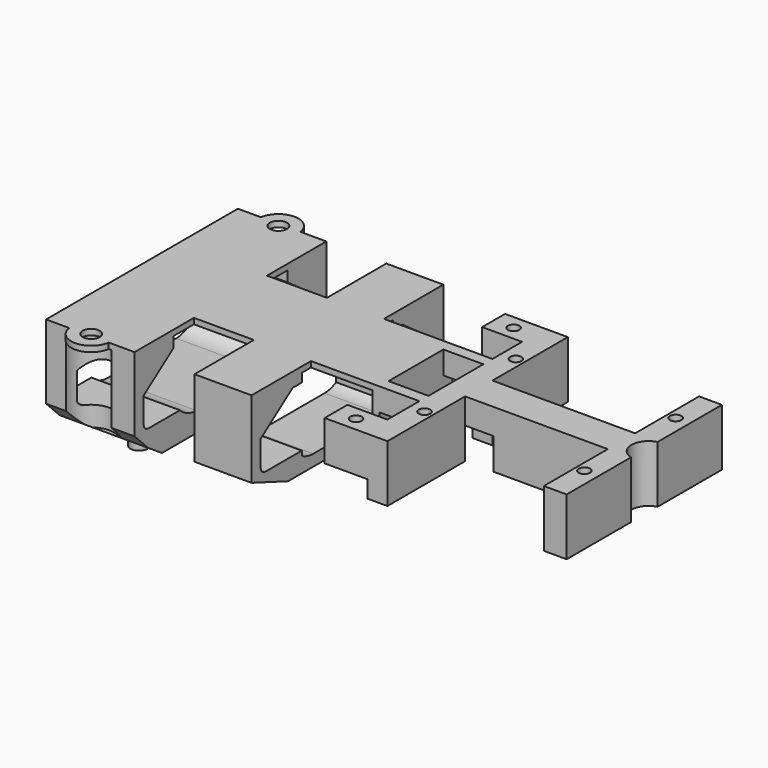
from build123d import *

# Parameters (mm, degrees)
BOX175_W           = 12.5
BOX175_H           = 42
BOX175_DEPTH       = 4
CYLINDER255_R      = 4
CYLINDER255_DEPTH  = 15.5
CYLINDER254_R      = 4
CYLINDER254_DEPTH  = 15.5
BOX179_W           = 60
BOX179_H           = 38
BOX179_DEPTH       = 6
FILLET109_R        = 1
BOX177_W           = 49
BOX177_H           = 10
BOX177_DEPTH       = 9
CHAMFER030_SIZE2   = 7
CHAMFER030_SIZE    = 5
BOX178_W           = 49
BOX178_H           = 10
BOX178_DEPTH       = 9
CHAMFER029_SIZE2   = 7
CHAMFER029_SIZE    = 5
BOX176_W           = 10
BOX176_H           = 6
BOX176_DEPTH       = 10
BOX173_W           = 10
BOX173_H           = 11
BOX173_DEPTH       = 16.5
CHAMFER028_SIZE2   = 8
CHAMFER028_SIZE    = 3
BOX174_W           = 10
BOX174_H           = 11
BOX174_DEPTH       = 16.5
CHAMFER031_SIZE2   = 8
CHAMFER031_SIZE    = 3
CYLINDER231_R      = 1
CYLINDER231_DEPTH  = 15
BOX146_W           = 11
BOX146_H           = 5
BOX146_DEPTH       = 10
CYLINDER230_R      = 1
CYLINDER230_DEPTH  = 15
BOX145_W           = 11
BOX145_H           = 5
BOX145_DEPTH       = 10
CYLINDER198_R      = 1.5
CYLINDER198_DEPTH  = 2.5
CYLINDER199_R      = 2.5
CYLINDER199_DEPTH  = 2.5
CYLINDER200_R      = 2.5
CYLINDER200_DEPTH  = 2.5
CYLINDER197_R      = 1.5
CYLINDER197_DEPTH  = 2.5
BOX090_W           = 50
BOX090_H           = 25
BOX090_DEPTH       = 13.5
FILLET081_R        = 5
CYLINDER158_R      = 3
CYLINDER158_DEPTH  = 20
CYLINDER159_R      = 1
CYLINDER159_DEPTH  = 15
CYLINDER162_R      = 1
CYLINDER162_DEPTH  = 15
CYLINDER161_R      = 1
CYLINDER161_DEPTH  = 15
CYLINDER160_R      = 1
CYLINDER160_DEPTH  = 15
PAD015_DEPTH       = 10
BOX093_W           = 9
BOX093_H           = 2
BOX093_DEPTH       = 4
BOX094_W           = 9
BOX094_H           = 2
BOX094_DEPTH       = 4
BOX089_W           = 32.5
BOX089_H           = 16
BOX089_DEPTH       = 10
CYLINDER064_R      = 1.5
CYLINDER064_DEPTH  = 10
CYLINDER066_R      = 1.5
CYLINDER066_DEPTH  = 10
BOX030_W           = 17.5
BOX030_H           = 3.5
BOX030_DEPTH       = 18
BOX028_W           = 17.5
BOX028_H           = 3.5
BOX028_DEPTH       = 18
BOX036_W           = 15.5
BOX036_H           = 42
BOX036_DEPTH       = 18
CYLINDER068_R      = 3.5
CYLINDER068_DEPTH  = 1
CYLINDER060_R      = 1.4
CYLINDER060_DEPTH  = 2.5
CYLINDER059_R      = 1.4
CYLINDER059_DEPTH  = 2.5
CYLINDER072_R      = 3.5
CYLINDER072_DEPTH  = 1
CHAMFER018_1_SIZE2 = 2
CHAMFER018_1_SIZE  = 3
CHAMFER018_2_SIZE2 = 3
CHAMFER018_2_SIZE  = 2
BOX092_W           = 2
BOX092_H           = 2
BOX092_DEPTH       = 10
BOX091_W           = 2
BOX091_H           = 2
BOX091_DEPTH       = 10
CYLINDER157_R      = 2
CYLINDER157_DEPTH  = 41
BOX109_W           = 10
BOX109_H           = 28
BOX109_DEPTH       = 16.5
CHAMFER020_SIZE    = 4
BOX172_W           = 15.5
BOX172_H           = 4
BOX172_DEPTH       = 15
CHAMFER027_SIZE    = 3
BOX171_W           = 15.5
BOX171_H           = 4
BOX171_DEPTH       = 15
CHAMFER026_SIZE    = 3


with BuildPart() as obj1:
    # Box175 → Box175 (new body)
    with BuildSketch(Plane(origin=(-17, -21, -20), x_dir=(1, 0, 0), z_dir=(0, 0, 1))):
        with Locations((6.25, 21)):
            Rectangle(BOX175_W, BOX175_H)
    extrude(amount=BOX175_DEPTH)


with BuildPart() as zylinder257:
    # Cylinder255 → Cylinder255 (new body)
    with BuildSketch(Plane(origin=(-52.5, -20.5, -25.5), x_dir=(1, 0, 0), z_dir=(0, 0, 1))):
        Circle(CYLINDER255_R)
    extrude(amount=CYLINDER255_DEPTH)


with BuildPart() as fusion168:
    # Cylinder254 → Cylinder254 (new body)
    with BuildSketch(Plane(origin=(-52.5, 20.5, -25.5), x_dir=(1, 0, 0), z_dir=(0, 0, 1))):
        Circle(CYLINDER254_R)
    extrude(amount=CYLINDER254_DEPTH)

    # Fusion168: union Zylinder257
    add(zylinder257.part)


with BuildPart() as fillet109:
    # Box179 → Box179 (new body)
    with BuildSketch(Plane(origin=(-65.5, -19, -18), x_dir=(1, 0, 0), z_dir=(0, 0, 1))):
        with Locations((30, 19)):
            Rectangle(BOX179_W, BOX179_H)
    extrude(amount=BOX179_DEPTH)

    # Fillet109
    fillet109_edges = [fillet109.edges().sort_by_distance(p)[0] for p in [
        (-35.5, -19, -18),
        (-35.5, -19, -12),
        (-35.5, 19, -18),
        (-35.5, 19, -12),
    ]]
    fillet(fillet109_edges, radius=FILLET109_R)


with BuildPart() as fillet109_1:
    # Fillet109 placement: moved
    add(fillet109.part.moved(Location((0, 0, -4))))


with BuildPart() as chamfer030:
    # Box177 → Box177 (new body)
    with BuildSketch(Plane(origin=(-69.5, -19, -20.5), x_dir=(1, 0, 0), z_dir=(0, 0, 1))):
        with Locations((24.5, 5)):
            Rectangle(BOX177_W, BOX177_H)
    extrude(amount=BOX177_DEPTH)

    # Chamfer030
    chamfer030_edges = [chamfer030.edges().sort_by_distance(p)[0] for p in [
        (-45, -19, -11.5),
    ]]
    chamfer030_side = chamfer030.faces().sort_by_distance((-45, -19, -16))[0]
    chamfer(chamfer030_edges, length=CHAMFER030_SIZE, length2=CHAMFER030_SIZE2, reference=chamfer030_side)


with BuildPart() as chamfer029:
    # Box178 → Box178 (new body)
    with BuildSketch(Plane(origin=(-69.5, 9, -20.5), x_dir=(1, 0, 0), z_dir=(0, 0, 1))):
        with Locations((24.5, 5)):
            Rectangle(BOX178_W, BOX178_H)
    extrude(amount=BOX178_DEPTH)

    # Chamfer029
    chamfer029_edges = [chamfer029.edges().sort_by_distance(p)[0] for p in [
        (-45, 19, -11.5),
    ]]
    chamfer029_side = chamfer029.faces().sort_by_distance((-45, 19, -16))[0]
    chamfer(chamfer029_edges, length=CHAMFER029_SIZE, length2=CHAMFER029_SIZE2, reference=chamfer029_side)


with BuildPart() as fusion174:
    # Box176 → Box176 (new body)
    with BuildSketch(Plane(origin=(-6, -3, -23.5), x_dir=(1, 0, 0), z_dir=(0, 0, 1))):
        with Locations((5, 3)):
            Rectangle(BOX176_W, BOX176_H)
    extrude(amount=BOX176_DEPTH)

    # Fusion174: union obj1, Fusion168, Fillet109, Chamfer030, Chamfer029
    add(obj1.part)
    add(fusion168.part)
    add(fillet109_1.part)
    add(chamfer030.part)
    add(chamfer029.part)


with BuildPart() as chamfer028:
    # Box173 → Box173 (new body)
    with BuildSketch(Plane(origin=(-34, 10, -25.5), x_dir=(1, 0, 0), z_dir=(0, 0, 1))):
        with Locations((5, 5.5)):
            Rectangle(BOX173_W, BOX173_H)
    extrude(amount=BOX173_DEPTH)

    # Chamfer028
    chamfer028_edges = [chamfer028.edges().sort_by_distance(p)[0] for p in [
        (-29, 21, -25.5),
    ]]
    chamfer028_side = chamfer028.faces().sort_by_distance((-29, 21, -17.25))[0]
    chamfer(chamfer028_edges, length=CHAMFER028_SIZE, length2=CHAMFER028_SIZE2, reference=chamfer028_side)


with BuildPart() as chamfer031:
    # Box174 → Box174 (new body)
    with BuildSketch(Plane(origin=(-34, -21, -25.5), x_dir=(1, 0, 0), z_dir=(0, 0, 1))):
        with Locations((5, 5.5)):
            Rectangle(BOX174_W, BOX174_H)
    extrude(amount=BOX174_DEPTH)

    # Chamfer031
    chamfer031_edges = [chamfer031.edges().sort_by_distance(p)[0] for p in [
        (-29, -21, -25.5),
    ]]
    chamfer031_side = chamfer031.faces().sort_by_distance((-29, -21, -17.25))[0]
    chamfer(chamfer031_edges, length=CHAMFER031_SIZE, length2=CHAMFER031_SIZE2, reference=chamfer031_side)


with BuildPart() as zylinder231:
    # Cylinder231 → Cylinder231 (new body)
    with BuildSketch(Plane(origin=(-8.5, 16, -20), x_dir=(1, 0, 0), z_dir=(0, 0, 1))):
        Circle(CYLINDER231_R)
    extrude(amount=CYLINDER231_DEPTH)


with BuildPart() as cut103:
    # Box146 → Box146 (new body)
    with BuildSketch(Plane(origin=(-12, 13.5, -19), x_dir=(1, 0, 0), z_dir=(0, 0, 1))):
        with Locations((5.5, 2.5)):
            Rectangle(BOX146_W, BOX146_H)
    extrude(amount=BOX146_DEPTH)

    # Cut103: cut Zylinder231
    add(zylinder231.part, mode=Mode.SUBTRACT)


with BuildPart() as cut103_1:
    # Cut103 placement: moved
    add(cut103.part.moved(Location((0, -33.5, 0))))


with BuildPart() as zylinder230:
    # Cylinder230 → Cylinder230 (new body)
    with BuildSketch(Plane(origin=(-8.5, 17, -20), x_dir=(1, 0, 0), z_dir=(0, 0, 1))):
        Circle(CYLINDER230_R)
    extrude(amount=CYLINDER230_DEPTH)


with BuildPart() as cut102:
    # Box145 → Box145 (new body)
    with BuildSketch(Plane(origin=(-12, 14.5, -19), x_dir=(1, 0, 0), z_dir=(0, 0, 1))):
        with Locations((5.5, 2.5)):
            Rectangle(BOX145_W, BOX145_H)
    extrude(amount=BOX145_DEPTH)

    # Cut102: cut Zylinder230
    add(zylinder230.part, mode=Mode.SUBTRACT)


with BuildPart() as zylinder198:
    # Cylinder198 → Cylinder198 (new body)
    with BuildSketch(Plane(origin=(-52.5, -10, -30.5), x_dir=(1, 0, 0), z_dir=(0, 0, 1))):
        Circle(CYLINDER198_R)
    extrude(amount=CYLINDER198_DEPTH)


with BuildPart() as zylinder199:
    # Cylinder199 → Cylinder199 (new body)
    with BuildSketch(Plane(origin=(-52.5, 10, -28.5), x_dir=(1, 0, 0), z_dir=(0, 0, 1))):
        Circle(CYLINDER199_R)
    extrude(amount=CYLINDER199_DEPTH)


with BuildPart() as zylinder200:
    # Cylinder200 → Cylinder200 (new body)
    with BuildSketch(Plane(origin=(-52.5, -10, -28.5), x_dir=(1, 0, 0), z_dir=(0, 0, 1))):
        Circle(CYLINDER200_R)
    extrude(amount=CYLINDER200_DEPTH)


with BuildPart() as fusion130:
    # Cylinder197 → Cylinder197 (new body)
    with BuildSketch(Plane(origin=(-52.5, 10, -30.5), x_dir=(1, 0, 0), z_dir=(0, 0, 1))):
        Circle(CYLINDER197_R)
    extrude(amount=CYLINDER197_DEPTH)

    # Fusion130: union Zylinder198, Zylinder199, Zylinder200
    add(zylinder198.part)
    add(zylinder199.part)
    add(zylinder200.part)


with BuildPart() as fillet081:
    # Box090 → Box090 (new body)
    with BuildSketch(Plane(origin=(-63.25, -12, -22), x_dir=(1, 0, 0), z_dir=(0, 0, 1))):
        with Locations((25, 12.5)):
            Rectangle(BOX090_W, BOX090_H)
    extrude(amount=BOX090_DEPTH)

    # Fillet081
    fillet081_edges = [fillet081.edges().sort_by_distance(p)[0] for p in [
        (-38.25, -12, -22),
        (-38.25, 13, -22),
    ]]
    fillet(fillet081_edges, radius=FILLET081_R)


with BuildPart() as fillet081_1:
    # Fillet081 placement: moved
    add(fillet081.part.moved(Location((0, -0.5, -1.5))))


with BuildPart() as zylinder158:
    # Cylinder158 → Cylinder158 (new body)
    with BuildSketch(Plane(origin=(28.75, 0, -21), x_dir=(1, 0, 0), z_dir=(0, 0, 1))):
        Circle(CYLINDER158_R)
    extrude(amount=CYLINDER158_DEPTH)


with BuildPart() as zylinder159:
    # Cylinder159 → Cylinder159 (new body)
    with BuildSketch(Plane(origin=(25.5, -10, -20), x_dir=(1, 0, 0), z_dir=(0, 0, 1))):
        Circle(CYLINDER159_R)
    extrude(amount=CYLINDER159_DEPTH)


with BuildPart() as zylinder162:
    # Cylinder162 → Cylinder162 (new body)
    with BuildSketch(Plane(origin=(25.5, 10, -20), x_dir=(1, 0, 0), z_dir=(0, 0, 1))):
        Circle(CYLINDER162_R)
    extrude(amount=CYLINDER162_DEPTH)


with BuildPart() as zylinder161:
    # Cylinder161 → Cylinder161 (new body)
    with BuildSketch(Plane(origin=(-2.5, -10, -20), x_dir=(1, 0, 0), z_dir=(0, 0, 1))):
        Circle(CYLINDER161_R)
    extrude(amount=CYLINDER161_DEPTH)


with BuildPart() as fusion104:
    # Cylinder160 → Cylinder160 (new body)
    with BuildSketch(Plane(origin=(-2.5, 10, -20), x_dir=(1, 0, 0), z_dir=(0, 0, 1))):
        Circle(CYLINDER160_R)
    extrude(amount=CYLINDER160_DEPTH)

    # Fusion104: union Zylinder159, Zylinder162, Zylinder161
    add(zylinder159.part)
    add(zylinder162.part)
    add(zylinder161.part)


with BuildPart() as fusion104_1:
    # Fusion104 placement: moved
    add(fusion104.part.moved(Location((0, 0, 17))))


with BuildPart() as cut080:
    # Sketch015 → Pad015 (new body)
    with BuildSketch(Plane.XY):
        Polygon((-5, 17), (-1, 17), (-1, 3), (24, 3), (24, 17), (28, 17), (28, -17), (24, -17), (24, -3), (-1, -3), (-1, -17), (-5, -17), align=None)
    extrude(amount=PAD015_DEPTH)

    # Cut081: cut Fusion104
    add(fusion104_1.part, mode=Mode.SUBTRACT)


with BuildPart() as cut080_1:
    # Cut081 placement: moved
    add(cut080.part.moved(Location((0, 0, -19))))

    # Cut080: cut Zylinder158
    add(zylinder158.part, mode=Mode.SUBTRACT)


with BuildPart() as obj2:
    # Box093 → Box093 (new body)
    with BuildSketch(Plane(origin=(-13, -8, -13), x_dir=(1, 0, 0), z_dir=(0, 0, 1))):
        with Locations((4.5, 1)):
            Rectangle(BOX093_W, BOX093_H)
    extrude(amount=BOX093_DEPTH)


with BuildPart() as obj3:
    # Box094 → Box094 (new body)
    with BuildSketch(Plane(origin=(-13, 6, -13), x_dir=(1, 0, 0), z_dir=(0, 0, 1))):
        with Locations((4.5, 1)):
            Rectangle(BOX094_W, BOX094_H)
    extrude(amount=BOX094_DEPTH)


with BuildPart() as obj4:
    # Box089 → Box089 (new body)
    with BuildSketch(Plane(origin=(-44.5, -8, -19), x_dir=(1, 0, 0), z_dir=(0, 0, 1))):
        with Locations((16.25, 8)):
            Rectangle(BOX089_W, BOX089_H)
    extrude(amount=BOX089_DEPTH)


with BuildPart() as zylinder064:
    # Cylinder064 → Cylinder064 (new body)
    with BuildSketch(Plane(origin=(16.5, -20.5, -14), x_dir=(1, 0, 0), z_dir=(0, 0, 1))):
        Circle(CYLINDER064_R)
    extrude(amount=CYLINDER064_DEPTH)


with BuildPart() as fusion097:
    # Cylinder066 → Cylinder066 (new body)
    with BuildSketch(Plane(origin=(16.5, 20.5, -14), x_dir=(1, 0, 0), z_dir=(0, 0, 1))):
        Circle(CYLINDER066_R)
    extrude(amount=CYLINDER066_DEPTH)

    # Fusion097: union Zylinder064
    add(zylinder064.part)


with BuildPart() as fusion097_1:
    # Fusion097 placement: moved
    add(fusion097.part.moved(Location((-69, 0, 0))))


with BuildPart() as obj5:
    # Box030 → Box030 (new body)
    with BuildSketch(Plane(origin=(7.5, 18, -28), x_dir=(1, 0, 0), z_dir=(0, 0, 1))):
        with Locations((8.75, 1.75)):
            Rectangle(BOX030_W, BOX030_H)
    extrude(amount=BOX030_DEPTH)


with BuildPart() as fusion099:
    # Box028 → Box028 (new body)
    with BuildSketch(Plane(origin=(7.5, -21.5, -28), x_dir=(1, 0, 0), z_dir=(0, 0, 1))):
        with Locations((8.75, 1.75)):
            Rectangle(BOX028_W, BOX028_H)
    extrude(amount=BOX028_DEPTH)

    # Fusion037: union obj5
    add(obj5.part)


with BuildPart() as fusion099_1:
    # Fusion037 placement: moved
    add(fusion099.part.moved(Location((-68.5, 0, 0))))

    # Fusion099: union Fusion097
    add(fusion097_1.part)


with BuildPart() as obj6:
    # Box036 → Box036 (new body)
    with BuildSketch(Plane(origin=(-60, -21, -27), x_dir=(1, 0, 0), z_dir=(0, 0, 1))):
        with Locations((7.75, 21)):
            Rectangle(BOX036_W, BOX036_H)
    extrude(amount=BOX036_DEPTH)


with BuildPart() as zylinder068:
    # Cylinder068 → Cylinder068 (new body)
    with BuildSketch(Plane(origin=(16.5, 20.5, -10), x_dir=(1, 0, 0), z_dir=(0, 0, 1))):
        Circle(CYLINDER068_R)
    extrude(amount=CYLINDER068_DEPTH)


with BuildPart() as zylinder060:
    # Cylinder060 → Cylinder060 (new body)
    with BuildSketch(Plane(origin=(16.5, -10, -29.5), x_dir=(1, 0, 0), z_dir=(0, 0, 1))):
        Circle(CYLINDER060_R)
    extrude(amount=CYLINDER060_DEPTH)


with BuildPart() as zylinder059:
    # Cylinder059 → Cylinder059 (new body)
    with BuildSketch(Plane(origin=(16.5, 10, -29.5), x_dir=(1, 0, 0), z_dir=(0, 0, 1))):
        Circle(CYLINDER059_R)
    extrude(amount=CYLINDER059_DEPTH)


with BuildPart() as fusion101:
    # Cylinder072 → Cylinder072 (new body)
    with BuildSketch(Plane(origin=(16.5, -20.5, -10), x_dir=(1, 0, 0), z_dir=(0, 0, 1))):
        Circle(CYLINDER072_R)
    extrude(amount=CYLINDER072_DEPTH)

    # Fusion030: union Zylinder068, Zylinder060, Zylinder059
    add(zylinder068.part)
    add(zylinder060.part)
    add(zylinder059.part)


with BuildPart() as fusion101_1:
    # Fusion030 placement: moved
    add(fusion101.part.moved(Location((-69, 0, 0))))

    # Fusion098: union obj6
    add(obj6.part)

    # Cut077: cut Fusion099
    add(fusion099_1.part, mode=Mode.SUBTRACT)

    # Chamfer018 1
    chamfer018_1_edges = [fusion101_1.edges().sort_by_distance(p)[0] for p in [
        (-52.25, -18, -27),
    ]]
    chamfer018_1_side = fusion101_1.faces().sort_by_distance((-52.244358, 0, -27))[0]
    chamfer(chamfer018_1_edges, length=CHAMFER018_1_SIZE, length2=CHAMFER018_1_SIZE2, reference=chamfer018_1_side)

    # Chamfer018 2
    chamfer018_2_edges = [fusion101_1.edges().sort_by_distance(p)[0] for p in [
        (-52.25, 18, -27),
    ]]
    chamfer018_2_side = fusion101_1.faces().sort_by_distance((-52.25, 18, -18.5))[0]
    chamfer(chamfer018_2_edges, length=CHAMFER018_2_SIZE, length2=CHAMFER018_2_SIZE2, reference=chamfer018_2_side)

    # Fusion101: union obj4
    add(obj4.part)


with BuildPart() as obj7:
    # Box092 → Box092 (new body)
    with BuildSketch(Plane(origin=(-57.5, -19.5, -21), x_dir=(1, 0, 0), z_dir=(0, 0, 1))):
        with Locations((1, 1)):
            Rectangle(BOX092_W, BOX092_H)
    extrude(amount=BOX092_DEPTH)


with BuildPart() as fusion102:
    # Box091 → Box091 (new body)
    with BuildSketch(Plane(origin=(-57.5, 17.5, -21), x_dir=(1, 0, 0), z_dir=(0, 0, 1))):
        with Locations((1, 1)):
            Rectangle(BOX091_W, BOX091_H)
    extrude(amount=BOX091_DEPTH)

    # Fusion102: union obj7
    add(obj7.part)


with BuildPart() as fusion103:
    # Cylinder157 → Cylinder157 (new body)
    with BuildSketch(Plane(origin=(-58, -20.5, -16.5), x_dir=(1, 0, 0), z_dir=(0, 1, 0))):
        Circle(CYLINDER157_R)
    extrude(amount=CYLINDER157_DEPTH)

    # Cut078: cut Fusion102
    add(fusion102.part, mode=Mode.SUBTRACT)

    # Fusion103: union Fusion101
    add(fusion101_1.part)


with BuildPart() as fusion147:
    # Box109 → Box109 (new body)
    with BuildSketch(Plane(origin=(-34, -14, -25.5), x_dir=(1, 0, 0), z_dir=(0, 0, 1))):
        with Locations((5, 14)):
            Rectangle(BOX109_W, BOX109_H)
    extrude(amount=BOX109_DEPTH)

    # Chamfer020
    chamfer020_edges = [fusion147.edges().sort_by_distance(p)[0] for p in [
        (-29, -14, -25.5),
        (-29, 14, -25.5),
    ]]
    chamfer(chamfer020_edges, length=CHAMFER020_SIZE)

    # Fusion125: union Cut080, obj2, obj3, Fusion103
    add(cut080_1.part)
    add(obj2.part)
    add(obj3.part)
    add(fusion103.part)

    # Cut083: cut Fillet081
    add(fillet081_1.part, mode=Mode.SUBTRACT)

    # Fusion131: union Fusion130
    add(fusion130.part)

    # Fusion147: union Cut103, Cut102
    add(cut103_1.part)
    add(cut102.part)


with BuildPart() as chamfer027:
    # Box172 → Box172 (new body)
    with BuildSketch(Plane(origin=(-60, -21, -25), x_dir=(1, 0, 0), z_dir=(0, 0, 1))):
        with Locations((7.75, 2)):
            Rectangle(BOX172_W, BOX172_H)
    extrude(amount=BOX172_DEPTH)

    # Chamfer027
    chamfer027_edges = [chamfer027.edges().sort_by_distance(p)[0] for p in [
        (-52.25, -21, -25),
    ]]
    chamfer(chamfer027_edges, length=CHAMFER027_SIZE)


with BuildPart() as cut118:
    # Box171 → Box171 (new body)
    with BuildSketch(Plane(origin=(-60, 17, -25), x_dir=(1, 0, 0), z_dir=(0, 0, 1))):
        with Locations((7.75, 2)):
            Rectangle(BOX171_W, BOX171_H)
    extrude(amount=BOX171_DEPTH)

    # Chamfer026
    chamfer026_edges = [cut118.edges().sort_by_distance(p)[0] for p in [
        (-52.25, 21, -25),
    ]]
    chamfer(chamfer026_edges, length=CHAMFER026_SIZE)

    # Fusion169: union Chamfer027
    add(chamfer027.part)

    # Fusion175: union Chamfer028, Chamfer031, Fusion147
    add(chamfer028.part)
    add(chamfer031.part)
    add(fusion147.part)

    # Cut118: cut Fusion174
    add(fusion174.part, mode=Mode.SUBTRACT)


solid = cut118.part
